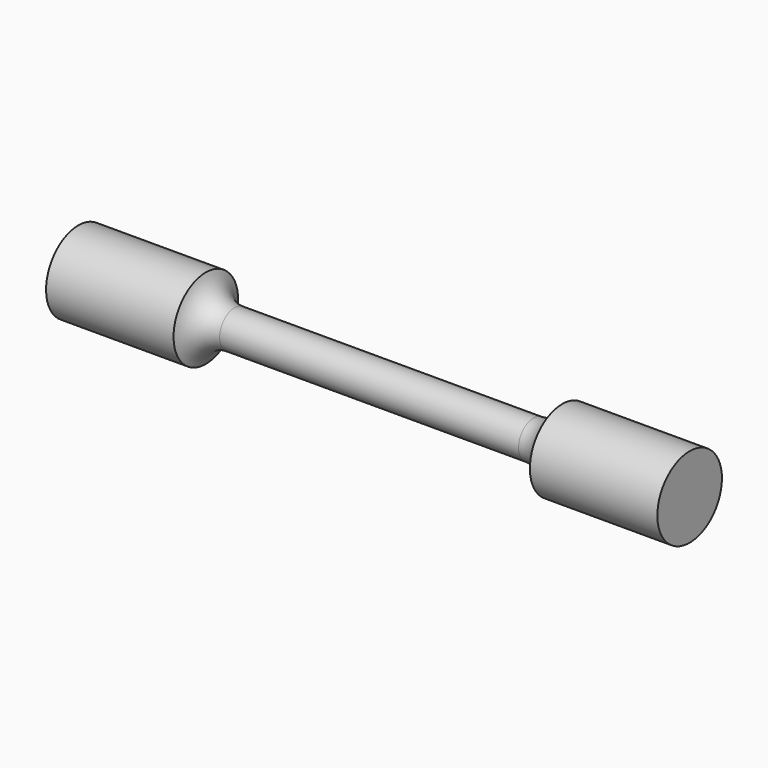
from build123d import *


with BuildPart() as f1:
    # F0 (on Front) → F1 (revolve)
    with BuildSketch(Plane.XZ):
        with BuildLine():
            Line((10, 1.25), (0, 1.25))
            Line((0, 1.25), (-10, 1.25))
            ThreePointArc((-10, 1.25), (-11.204477, 1.653368), (-11.923107, 2.700765))
            Line((-11.923107, 2.700765), (-20.453094, 2.700765))
            Line((-20.453094, 2.700765), (-20.453094, 0))
            Line((-20.453094, 0), (0, 0))
            Line((0, 0), (20.453094, 0))
            Line((20.453094, 0), (20.453094, 2.700765))
            Line((20.453094, 2.700765), (11.923107, 2.700765))
            ThreePointArc((11.923107, 2.700765), (11.204477, 1.653368), (10, 1.25))
        make_face()
    revolve(axis=Axis((-10.226547, 0, 0), (1, 0, 0)))


solid = f1.part
